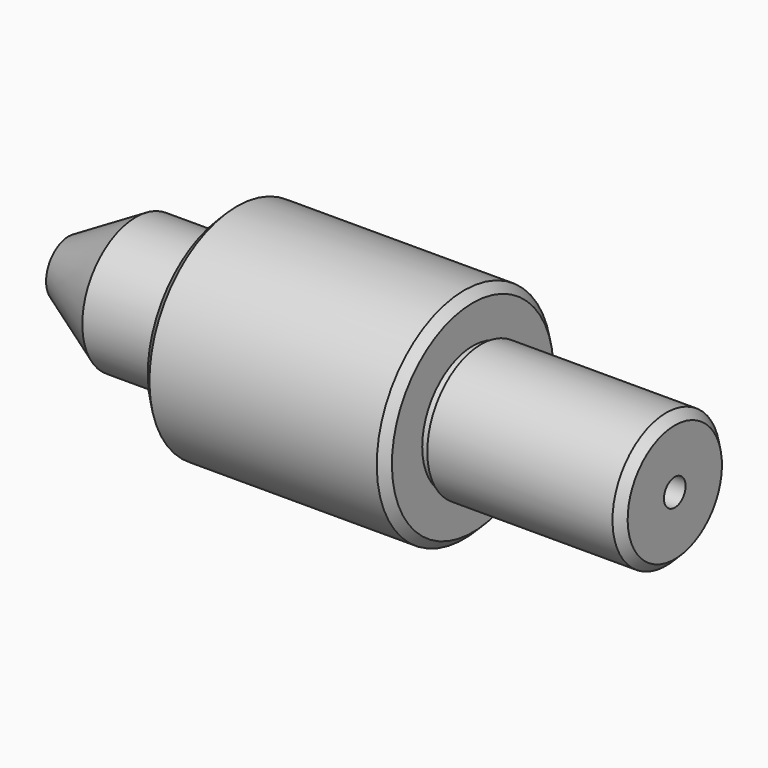
from build123d import *

# Parameters (mm, degrees)
F2_W     = 1.5875
F2_H     = 0.79375
F4_SIZE  = 1.5875
F5_R     = 0.381
F7_D     = 5.1054
F7_DEPTH = 12.7
F7_TIP   = 1.5338169022


with BuildPart() as f1:
    # F0 (on Front) → F1 (revolve)
    with BuildSketch(Plane.XZ):
        Polygon((-114.3, 0), (0, 0), (0, 12.7), (-38.1, 12.7), (-38.1, 20.6375), (-84.1375, 20.6375), (-84.1375, 12.6492), (-101.6, 12.6492), (-114.3, 5.3168515813), align=None)
    revolve(axis=Axis((-57.15, 0, 0), (1, 0, 0)))

    # F2 (on Top) → F3 (revolve, cut)
    with BuildSketch(Plane.XY):
        with Locations((-37.30625, -12.303125)):
            Rectangle(F2_W, F2_H)
    revolve(axis=Axis((-65.0381594896, 0, 0), (-1, 0, 0)), mode=Mode.SUBTRACT)

    # F4
    f4_edges = [f1.edges().sort_by_distance(p)[0] for p in [
        (0, 0, -12.7),
        (-38.1, 0, -20.6375),
        (-84.1375, 0, -20.6375),
    ]]
    chamfer(f4_edges, length=F4_SIZE)

    # F5
    f5_edges = [f1.edges().sort_by_distance(p)[0] for p in [
        (-84.1375, 0, -12.6492),
    ]]
    fillet(f5_edges, radius=F5_R)

    # F7
    with Locations(Plane.YZ):
        with Locations((0, 0)):
            Hole(F7_D / 2, depth=F7_DEPTH)
            with Locations((0, 0, -(F7_DEPTH + F7_TIP / 2))):  # 118° drill point
                Cone(0, F7_D / 2, F7_TIP, mode=Mode.SUBTRACT)


solid = f1.part
